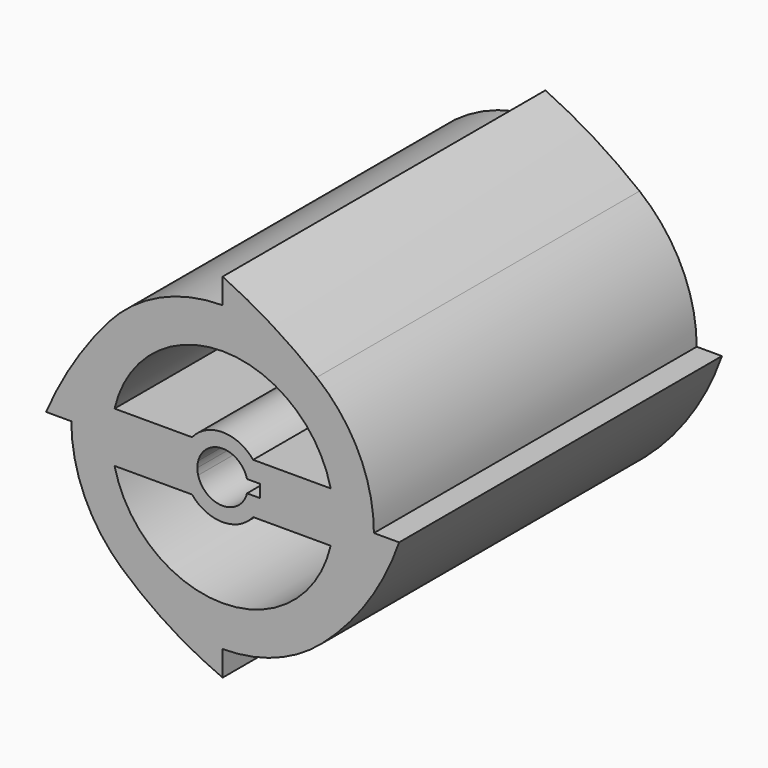
from build123d import *

# Parameters (mm, degrees)
F1_DEPTH = 101.6


with BuildPart() as f1:
    # F0 (on Front) → F1 (new body)
    with BuildSketch(Plane.XZ):
        with BuildLine():
            Line((9.9733600981, 0), (38.1, 0))
            ThreePointArc((38.1, 0), (34.3137442359, 16.5582896616), (23.7075088443, 29.8255599176))
            ThreePointArc((23.7075088443, 29.8255599176), (12.5550023325, 35.9719601416), (0, 38.1))
            ThreePointArc((0, 38.1), (-15.8184490109, 34.6610252429), (-28.7812945128, 24.9649171071))
            ThreePointArc((-28.7812945128, 24.9649171071), (-35.6943785556, 13.3237134287), (-38.1, 0))
            Line((-38.1, 0), (-9.9733600981, 0))
            ThreePointArc((-9.9733600981, 0), (-9.38533667, 3.3739246044), (-7.6906054148, 6.35))
            Line((-7.6906054148, 6.35), (-27.2088423127, 6.35))
            ThreePointArc((-27.2088423127, 6.35), (0, 27.94), (27.2088423127, 6.35))
            Line((27.2088423127, 6.35), (7.6906054148, 6.35))
            ThreePointArc((7.6906054148, 6.35), (9.38533667, 3.3739246044), (9.9733600981, 0))
        make_face()
        with BuildLine():
            Line((44.45, 0), (38.1, 0))
            ThreePointArc((38.1, 0), (34.6839293822, -15.7681654802), (25.0482917265, -28.7087631497))
            ThreePointArc((25.0482917265, -28.7087631497), (36.6190780289, -15.6181029752), (44.45, 0))
        make_face()
        with BuildLine():
            ThreePointArc((25.0482917265, -28.7087631497), (34.6839293822, -15.7681654802), (38.1, 0))
            Line((38.1, 0), (9.9733600981, 0))
            ThreePointArc((9.9733600981, 0), (9.38533667, -3.3739246044), (7.6906054148, -6.35))
            Line((7.6906054148, -6.35), (27.2088423127, -6.35))
            ThreePointArc((27.2088423127, -6.35), (0, -27.94), (-27.2088423127, -6.35))
            Line((-27.2088423127, -6.35), (-7.6906054148, -6.35))
            ThreePointArc((-7.6906054148, -6.35), (-9.38533667, -3.3739246044), (-9.9733600981, 0))
            Line((-9.9733600981, 0), (-38.1, 0))
            ThreePointArc((-38.1, 0), (-34.7686488709, -15.5804703297), (-25.3571624308, -28.4363203221))
            ThreePointArc((-25.3571624308, -28.4363203221), (-13.5680911651, -35.6022036135), (0, -38.1))
            ThreePointArc((0, -38.1), (13.3754649265, -35.6750184023), (25.0482917265, -28.7087631497))
        make_face()
        with BuildLine():
            ThreePointArc((0, 38.1), (12.5550023325, 35.9719601416), (23.7075088443, 29.8255599176))
            ThreePointArc((23.7075088443, 29.8255599176), (12.2888873877, 37.8431689221), (0, 44.45))
            Line((0, 44.45), (0, 38.1))
        make_face()
        with BuildLine():
            Line((0, -44.45), (0, -38.1))
            ThreePointArc((0, -38.1), (-13.5680911651, -35.6022036135), (-25.3571624308, -28.4363203221))
            ThreePointArc((-25.3571624308, -28.4363203221), (-13.3404167742, -37.491156131), (0, -44.45))
        make_face()
        with BuildLine():
            ThreePointArc((-38.1, 0), (-35.6943785556, 13.3237134287), (-28.7812945128, 24.9649171071))
            ThreePointArc((-28.7812945128, 24.9649171071), (-37.5788399133, 13.0869861794), (-44.45, 0))
            Line((-44.45, 0), (-38.1, 0))
        make_face()
        with BuildLine():
            ThreePointArc((7.6906054148, -6.35), (9.38533667, -3.3739246044), (9.9733600981, 0))
            Line((9.9733600981, 0), (9.3917766557, 0))
            Line((9.3917766557, 0), (9.3917766557, -1.5875))
            Line((9.3917766557, -1.5875), (6.1483610621, -1.5875))
            ThreePointArc((6.1483610621, -1.5875), (0, -6.35), (-6.1483610621, -1.5875))
            Line((-6.1483610621, -1.5875), (-9.3917766557, -1.5875))
            Line((-9.3917766557, -1.5875), (-9.3917766557, 0))
            Line((-9.3917766557, 0), (-9.9733600981, 0))
            ThreePointArc((-9.9733600981, 0), (-9.38533667, -3.3739246044), (-7.6906054148, -6.35))
            ThreePointArc((-7.6906054148, -6.35), (0, -9.9733600981), (7.6906054148, -6.35))
        make_face()
        with BuildLine():
            Line((9.3917766557, 0), (9.9733600981, 0))
            ThreePointArc((9.9733600981, 0), (9.38533667, 3.3739246044), (7.6906054148, 6.35))
            ThreePointArc((7.6906054148, 6.35), (0, 9.9733600981), (-7.6906054148, 6.35))
            ThreePointArc((-7.6906054148, 6.35), (-9.38533667, 3.3739246044), (-9.9733600981, 0))
            Line((-9.9733600981, 0), (-9.3917766557, 0))
            Line((-9.3917766557, 0), (-9.3917766557, 1.5875))
            Line((-9.3917766557, 1.5875), (-6.1483610621, 1.5875))
            ThreePointArc((-6.1483610621, 1.5875), (0, 6.35), (6.1483610621, 1.5875))
            Line((6.1483610621, 1.5875), (9.3917766557, 1.5875))
            Line((9.3917766557, 1.5875), (9.3917766557, 0))
        make_face()
        with BuildLine():
            Line((-9.3917766557, 0), (-6.35, 0))
            ThreePointArc((-6.35, 0), (-6.2993885713, 0.8001272573), (-6.1483610621, 1.5875))
            Line((-6.1483610621, 1.5875), (-9.3917766557, 1.5875))
            Line((-9.3917766557, 1.5875), (-9.3917766557, 0))
        make_face()
        with BuildLine():
            ThreePointArc((-6.1483610621, -1.5875), (-6.2993885713, -0.8001272573), (-6.35, 0))
            Line((-6.35, 0), (-9.3917766557, 0))
            Line((-9.3917766557, 0), (-9.3917766557, -1.5875))
            Line((-9.3917766557, -1.5875), (-6.1483610621, -1.5875))
        make_face()
    extrude(amount=F1_DEPTH)


solid = f1.part
